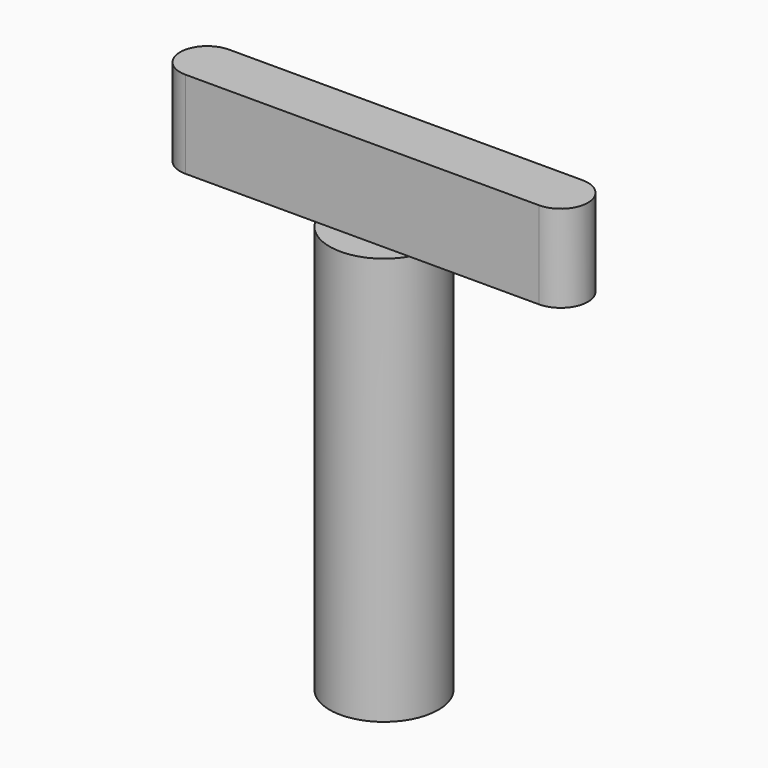
from build123d import *

# Parameters (mm, degrees)
F1_DEPTH = 6.42
F2_R     = 4
F3_DEPTH = 30


with BuildPart() as f1:
    # F0 (on Top) → F1 (new body)
    with BuildSketch(Plane.XY):
        with BuildLine():
            Line((13, 2), (-13, 2))
            ThreePointArc((-13, 2), (-15, 0), (-13, -2))
            Line((-13, -2), (13, -2))
            ThreePointArc((13, -2), (15, 0), (13, 2))
        make_face()
    extrude(amount=F1_DEPTH)

    # F2 (on face) → F3 (join)
    with BuildSketch(Plane(origin=(0, 0, 0), x_dir=(1, 0, 0), z_dir=(0, 0, -1))):
        Circle(F2_R)
    extrude(amount=F3_DEPTH)


solid = f1.part
